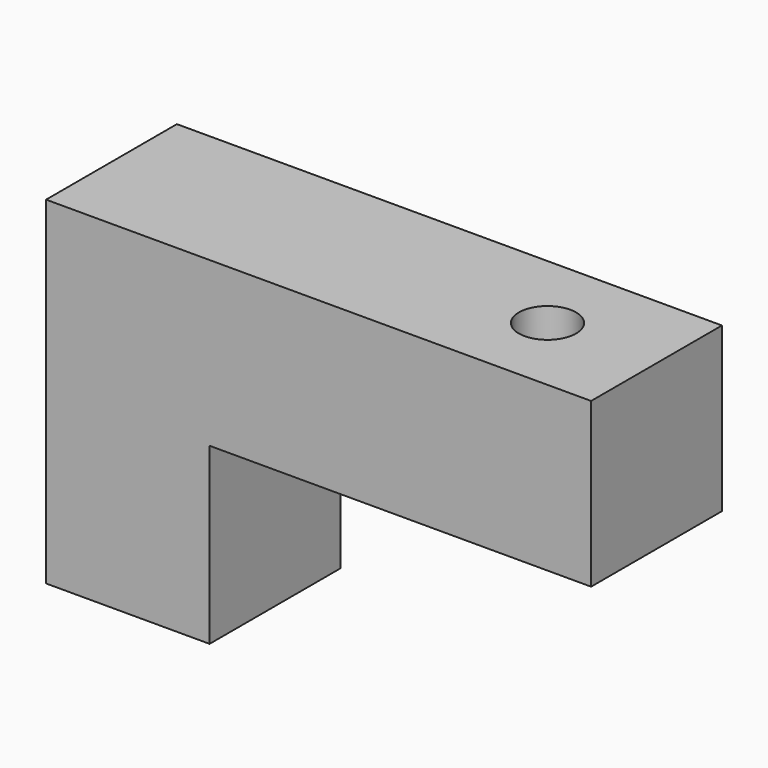
from build123d import *

# Parameters (mm, degrees)
F0_W     = 30
F0_H     = 32
F1_DEPTH = 30
F3_D     = 10.5


with BuildPart() as f1:
    # F0 (on Front) → F1 (new body)
    with BuildSketch(Plane.XZ):
        with Locations((-22.875489, -3.25507)):
            Rectangle(F0_W, F0_H)
        Polygon((-37.875489, 42.74493), (-37.875489, 12.74493), (-7.875489, 12.74493), (62.124511, 12.74493), (62.124511, 42.74493), align=None)
    extrude(amount=F1_DEPTH)

    # F3 (through all)
    with Locations(Plane.XY.offset(42.74493)):
        with Locations((42.124511, -15)):
            Hole(F3_D / 2)


solid = f1.part
